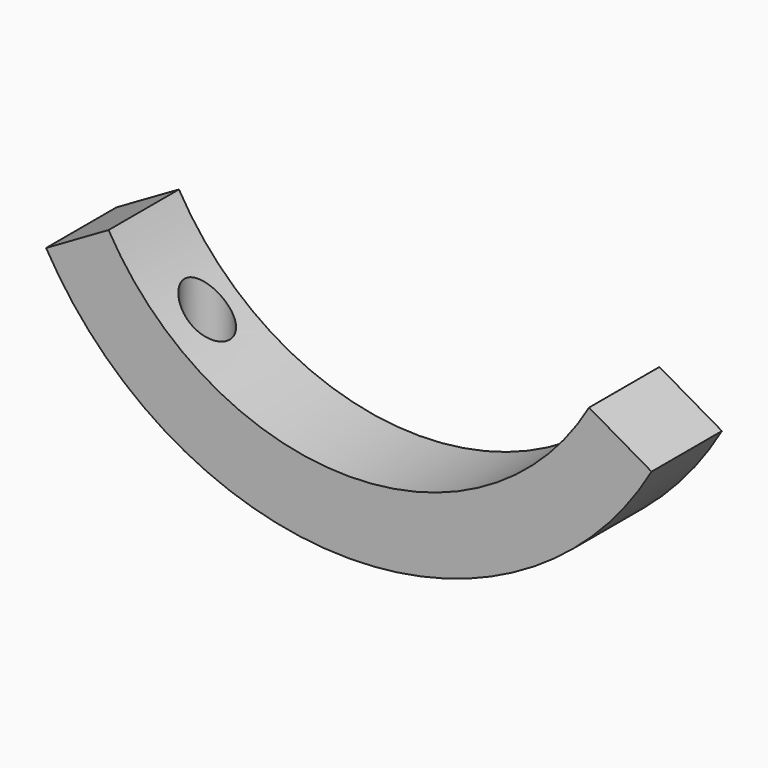
from build123d import *

# Parameters (mm, degrees)
F1_DEPTH = 19.5
F3_R     = 3
F4_DEPTH = 60.866634
F3_R_2   = 5
F5_DEPTH = 40.43


with BuildPart() as f1:
    # F0 (on Front) → F1 (new body)
    with BuildSketch(Plane.XZ):
        with BuildLine():
            Line((-53.260562, 35.884366), (-67.116969, 27.884366))
            ThreePointArc((-67.116969, 27.884366), (0, -10.865634), (67.116969, 27.884366))
            Line((67.116969, 27.884366), (53.260562, 35.884366))
            ThreePointArc((53.260562, 35.884366), (0, 5.134366), (-53.260562, 35.884366))
        make_face()
    extrude(amount=F1_DEPTH)

    # F3 (on offset) → F4 (cut, through all)
    with BuildSketch(Plane.XY.offset(50)):
        with Locations((-40, -8.75)):
            Circle(F3_R)
        with Locations((40, -8.75)):
            Circle(F3_R)
    extrude(amount=-F4_DEPTH, mode=Mode.SUBTRACT)

    # F3 (on offset) → F5 (cut)
    with BuildSketch(Plane.XY.offset(50)):
        with Locations((40, -8.75)):
            Circle(F3_R_2)
        with Locations((40, -8.75)):
            Circle(F3_R, mode=Mode.SUBTRACT)
        with Locations((-40, -8.75)):
            Circle(F3_R_2)
        with Locations((-40, -8.75)):
            Circle(F3_R, mode=Mode.SUBTRACT)
    extrude(amount=-F5_DEPTH, mode=Mode.SUBTRACT)


solid = f1.part
